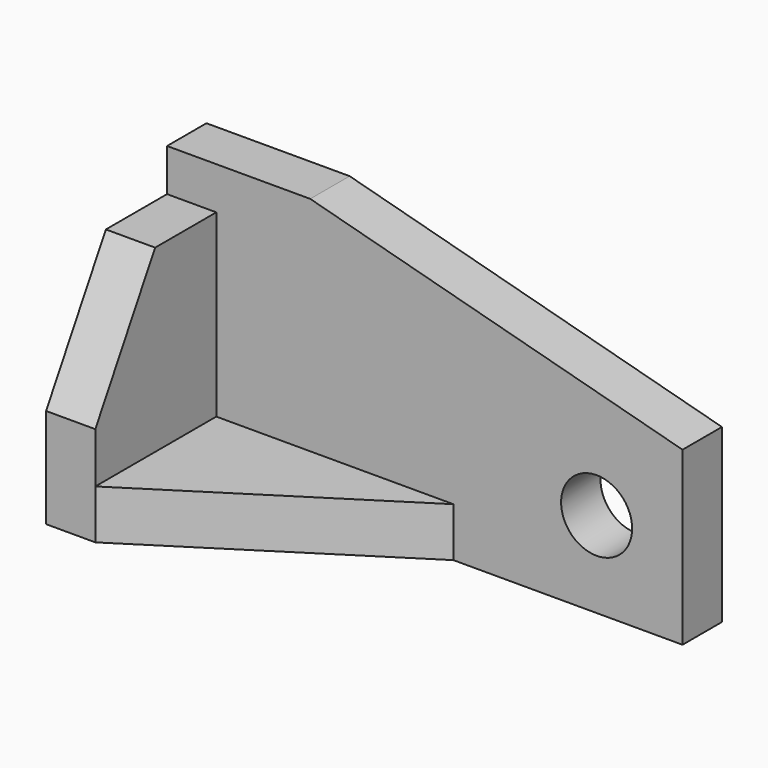
from build123d import *

# Parameters (mm, degrees)
F1_DEPTH  = 10.922
F2_W      = 10.922
F2_H      = 50.8
F3_DEPTH  = 33.528
F5_DEPTH  = 10.923
F6_W      = 52.578
F6_H      = 10.922
F7_DEPTH  = 33.528
F9_DEPTH  = 10.923
F10_R     = 7.874
F11_DEPTH = 10.923


with BuildPart() as f1:
    # F0 (on Front) → F1 (new body)
    with BuildSketch(Plane.XZ):
        Polygon((-25.4, 30.099), (-57.15, 30.099), (-57.15, -30.099), (57.15, -30.099), (57.15, 7.9797941648), align=None)
    extrude(amount=F1_DEPTH)

    # F2 (on face) → F3 (join)
    with BuildSketch(Plane.XZ.offset(10.922)):
        with Locations((-51.689, -4.699)):
            Rectangle(F2_W, F2_H)
    extrude(amount=F3_DEPTH)

    # F4 (on face) → F5 (cut, through all)
    with BuildSketch(Plane.YZ.offset(-46.228)):
        Polygon((-44.45, -8.001), (-27.8788925737, 20.701), (-44.45, 20.701), align=None)
    extrude(amount=-F5_DEPTH, mode=Mode.SUBTRACT)

    # F6 (on face) → F7 (join, through all)
    with BuildSketch(Plane.XZ.offset(10.922)):
        with Locations((-19.939, -24.638)):
            Rectangle(F6_W, F6_H)
    extrude(amount=F7_DEPTH)

    # F8 (on face) → F9 (cut, through all)
    with BuildSketch(Plane.XY.offset(-19.177)):
        Polygon((6.35, -10.922), (-46.228, -44.45), (6.35, -44.45), align=None)
    extrude(amount=-F9_DEPTH, mode=Mode.SUBTRACT)

    # F10 (on face) → F11 (cut, through all)
    with BuildSketch(Plane.XZ.offset(10.922)):
        with Locations((38.1, -11.049)):
            Circle(F10_R)
    extrude(amount=-F11_DEPTH, mode=Mode.SUBTRACT)


solid = f1.part
